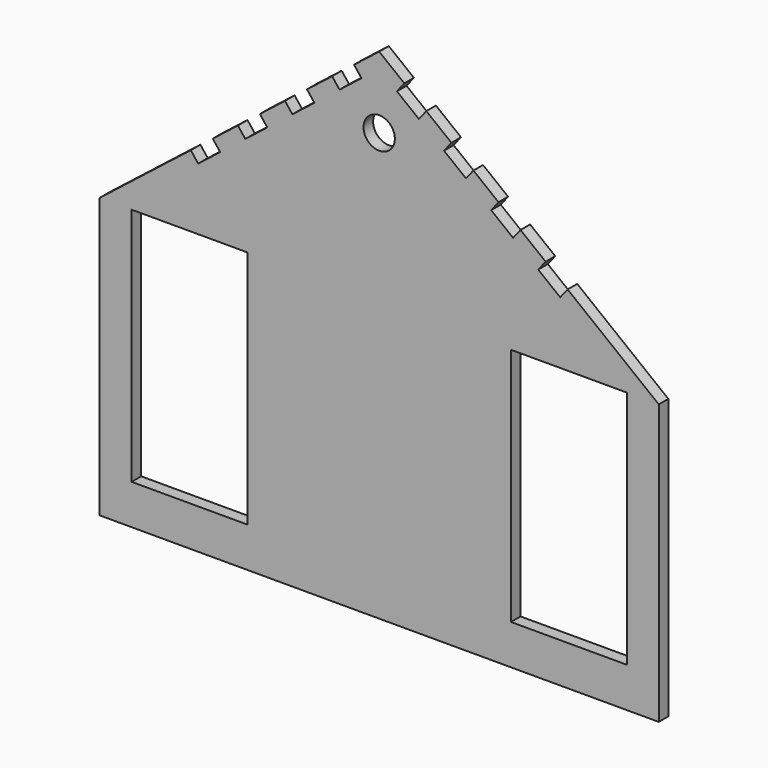
from build123d import *

# Parameters (mm, degrees)
F0_W     = 36.83
F0_H     = 76.2
F1_DEPTH = 3.81
F2_W     = 8.89
F2_H     = 3.81
F3_DEPTH = 3.81
F4_W     = 8.89
F4_H     = 3.81
F5_DEPTH = 3.81
F6_R     = 4.9784
F7_DEPTH = 3.81


with BuildPart() as f1:
    # F0 (on Front) → F1 (new body)
    with BuildSketch(Plane.XZ):
        Polygon((-88.9, -66.0091239631), (0, -66.0091239631), (88.9, -66.0091239631), (88.9, 22.8908760369), (0, 92.7408760369), (-88.9, 22.8908760369), align=None)
        with Locations((-60.325, -15.2091239631)):
            Rectangle(F0_W, F0_H, mode=Mode.SUBTRACT)
        with Locations((60.325, -15.2091239631)):
            Rectangle(F0_W, F0_H, mode=Mode.SUBTRACT)
    extrude(amount=F1_DEPTH)

    # F2 (on face) → F3 (cut)
    with BuildSketch(Plane(origin=(-45.0539271599, 0, 57.3413618398), x_dir=(0.7863183388, 0, 0.6178215519), z_dir=(-0.6178215519, 0, 0.7863183388))):
        with Locations((-14.4576880394, -1.905)):
            Rectangle(F2_W, F2_H)
        with Locations((23.6423119606, -1.905)):
            Rectangle(F2_W, F2_H)
        with Locations((42.6923119606, -1.905)):
            Rectangle(F2_W, F2_H)
        with Locations((4.5923119606, -1.905)):
            Rectangle(F2_W, F2_H)
    extrude(amount=-F3_DEPTH, mode=Mode.SUBTRACT)

    # F4 (on face) → F5 (cut)
    with BuildSketch(Plane(origin=(45.0539271599, 0, 57.3413618398), x_dir=(0.7863183388, 0, -0.6178215519), z_dir=(0.6178215519, 0, 0.7863183388))):
        with Locations((-42.6923119606, -1.905)):
            Rectangle(F4_W, F4_H)
        with Locations((-23.6423119606, -1.905)):
            Rectangle(F4_W, F4_H)
        with Locations((-4.5923119606, -1.905)):
            Rectangle(F4_W, F4_H)
        with Locations((14.4576880394, -1.905)):
            Rectangle(F4_W, F4_H)
    extrude(amount=-F5_DEPTH, mode=Mode.SUBTRACT)

    # F6 (on face) → F7 (cut)
    with BuildSketch(Plane(origin=(0, 0, 0), x_dir=(-1, 0, 0), z_dir=(0, 1, 0))):
        with Locations((0, 69.9647201129)):
            Circle(F6_R)
    extrude(amount=-F7_DEPTH, mode=Mode.SUBTRACT)


solid = f1.part
